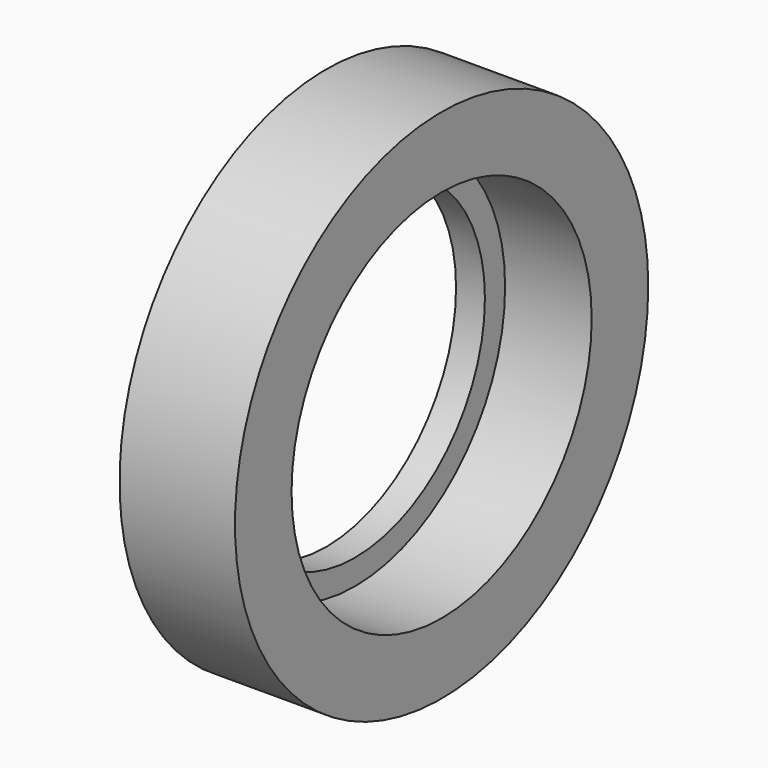
from build123d import *

# Parameters (mm, degrees)
F0_R           = 17.9
F1_DEPTH       = 8
F3_D           = 22.5
F3_CBORE_D     = 26
F3_CBORE_DEPTH = 6


with BuildPart() as f1:
    # F0 (on Right) → F1 (new body)
    with BuildSketch(Plane.YZ):
        Circle(F0_R)
    extrude(amount=F1_DEPTH)

    # F3 (through all)
    with Locations(Plane.YZ.offset(8)):
        with Locations((0, 0)):
            CounterBoreHole(F3_D / 2, F3_CBORE_D / 2, F3_CBORE_DEPTH)


solid = f1.part
